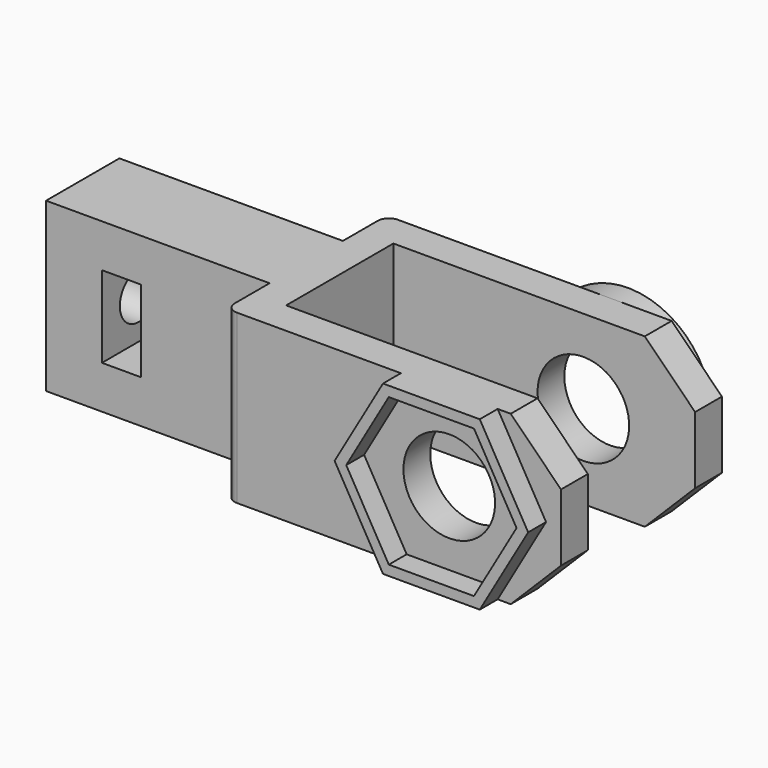
from build123d import *

# Parameters (mm, degrees)
F1_DEPTH  = 15
F2_R      = 2.1
F3_DEPTH  = 50.001
F4_W      = 3.5
F4_H      = 7.3
F5_DEPTH  = 13.101
F6_R      = 4.1
F7_DEPTH  = 18.001
F9_DEPTH  = 2
F10_R     = 7.5
F10_R_2   = 6.6
F11_DEPTH = 2


with BuildPart() as f1:
    # F0 (on Top) → F1 (new body)
    with BuildSketch(Plane.XY):
        with BuildLine():
            Line((0, 4.1), (0, 0))
            Line((0, 0), (0, -4.1))
            Line((0, -4.1), (20, -4.1))
            Line((20, -4.1), (20, -8))
            ThreePointArc((20, -8), (20.292893, -8.707107), (21, -9))
            Line((21, -9), (50, -9))
            Line((50, -9), (50, -6))
            Line((50, -6), (23, -6))
            Line((23, -6), (23, 0))
            Line((23, 0), (23, 6))
            Line((23, 6), (50, 6))
            Line((50, 6), (50, 9))
            Line((50, 9), (21, 9))
            ThreePointArc((21, 9), (20.292893, 8.707107), (20, 8))
            Line((20, 8), (20, 4.1))
            Line((20, 4.1), (0, 4.1))
        make_face()
    extrude(amount=F1_DEPTH)

    # F2 (on face) → F3 (cut, through all)
    with BuildSketch(Plane(origin=(0, 0, 0), x_dir=(0, -1, 0), z_dir=(-1, 0, 0))):
        with Locations((0, 7.5)):
            Circle(F2_R)
    extrude(amount=-F3_DEPTH, mode=Mode.SUBTRACT)

    # F4 (on face) → F5 (cut, through all)
    with BuildSketch(Plane.XZ.offset(4.1)):
        with Locations((6.75, 7.5)):
            Rectangle(F4_W, F4_H)
    extrude(amount=-F5_DEPTH, mode=Mode.SUBTRACT)

    # F6 (on face) → F7 (cut, through all)
    with BuildSketch(Plane(origin=(0, 9, 0), x_dir=(-1, 0, 0), z_dir=(0, 1, 0))):
        with Locations((-40, 7.5)):
            Circle(F6_R)
        Polygon((-45.5, 15), (-50, 15), (-50, 10.5), align=None)
        Polygon((-50, 4.5), (-50, 0), (-45.5, 0), align=None)
    extrude(amount=-F7_DEPTH, mode=Mode.SUBTRACT)

    # F8 (on face) → F9 (join)
    with BuildSketch(Plane.XZ.offset(9)):
        Polygon((44.330127, 15), (35.669873, 15), (31.339746, 7.5), (35.669873, 0), (44.330127, 0), (48.660254, 7.5), align=None)
        Polygon((32.378976, 7.5), (36.189488, 14.1), (43.810512, 14.1), (47.621024, 7.5), (43.810512, 0.9), (36.189488, 0.9), align=None, mode=Mode.SUBTRACT)
    extrude(amount=F9_DEPTH)

    # F10 (on face) → F11 (join)
    with BuildSketch(Plane(origin=(0, 9, 0), x_dir=(-1, 0, 0), z_dir=(0, 1, 0))):
        with Locations((-40, 7.5)):
            Circle(F10_R)
        with Locations((-40, 7.5)):
            Circle(F10_R_2, mode=Mode.SUBTRACT)
    extrude(amount=F11_DEPTH)


solid = f1.part
